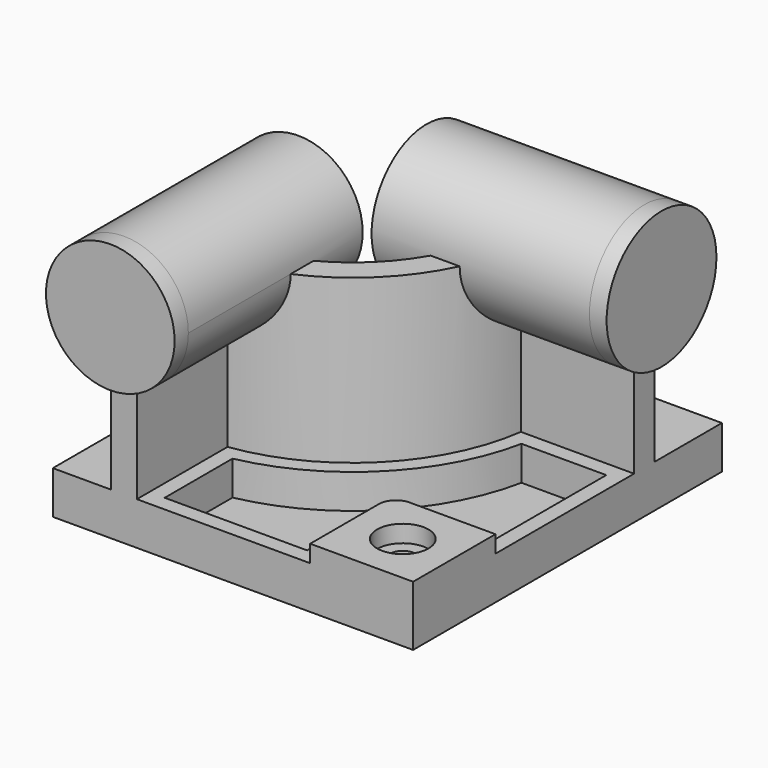
from build123d import *

# Parameters (mm, degrees)
F0_W            = 5334
F0_H            = 5715
F1_DEPTH        = 635
F3_DEPTH        = 2413
F4_R            = 952.5
F5_DEPTH        = 254
F5_DEPTH_BACK   = 3225.8
F6_R            = 1016
F7_DEPTH        = 254
F7_DEPTH_BACK   = 3225.8
F8_W            = 1524
F8_H            = 1524
F9_DEPTH        = 254
F10_R           = 254
F12_DEPTH       = 508
F14_D           = 381
F14_CBORE_D     = 762
F14_CBORE_DEPTH = 254


with BuildPart() as f1:
    # F0 (on Top) → F1 (new body)
    with BuildSketch(Plane.XY):
        Rectangle(F0_W, F0_H)
    extrude(amount=-F1_DEPTH)

    # F2 (on face) → F3 (join)
    with BuildSketch(Plane.XY):
        with BuildLine():
            Line((-1803.4, -825.5), (-1803.4, -2857.5))
            Line((-1803.4, -2857.5), (-1422.4, -2857.5))
            Line((-1422.4, -2857.5), (-1422.4, -1180.638144))
            ThreePointArc((-1422.4, -1180.638144), (190.216859, -380.716859), (990.138144, 1231.9))
            Line((990.138144, 1231.9), (2667, 1231.9))
            Line((2667, 1231.9), (2667, 1612.9))
            Line((2667, 1612.9), (635, 1612.9))
            ThreePointArc((635, 1612.9), (-79.190825, -111.309175), (-1803.4, -825.5))
        make_face()
    extrude(amount=F3_DEPTH)

    # F4 (on face) → F5 (join, two sides)
    with BuildSketch(Plane.XZ.offset(2857.5)) as f5_sk:
        with Locations((-1612.9, 2413)):
            Circle(F4_R)
    extrude(amount=F5_DEPTH)
    extrude(f5_sk.sketch, amount=-F5_DEPTH_BACK)

    # F6 (on face) → F7 (join, two sides)
    with BuildSketch(Plane.YZ.offset(2667)) as f7_sk:
        with Locations((1422.4, 2413)):
            Circle(F6_R)
    extrude(amount=F7_DEPTH)
    extrude(f7_sk.sketch, amount=-F7_DEPTH_BACK)

    # F8 (on face) → F9 (join)
    with BuildSketch(Plane.XY):
        with Locations((1905, -2095.5)):
            Rectangle(F8_W, F8_H)
    extrude(amount=F9_DEPTH)

    # F10
    f10_edges = [f1.edges().sort_by_distance(p)[0] for p in [
        (1143, -1333.5, 127),
    ]]
    fillet(f10_edges, radius=F10_R)

    # F11 (on face) → F12 (cut)
    with BuildSketch(Plane.XY):
        with BuildLine():
            ThreePointArc((1183.017894, 1003.3), (351.861469, -542.361469), (-1193.8, -1373.517894))
            Line((-1193.8, -1373.517894), (-1193.8, -2628.9))
            Line((-1193.8, -2628.9), (914.4, -2628.9))
            Line((914.4, -2628.9), (914.4, -1587.5))
            ThreePointArc((914.4, -1587.5), (1055.750267, -1246.250267), (1397, -1104.9))
            Line((1397, -1104.9), (2438.4, -1104.9))
            Line((2438.4, -1104.9), (2438.4, 1003.3))
            Line((2438.4, 1003.3), (1183.017894, 1003.3))
        make_face()
    extrude(amount=-F12_DEPTH, mode=Mode.SUBTRACT)

    # F14 (through all)
    with Locations(Plane.XY.offset(254)):
        with Locations((1905, -2095.5)):
            CounterBoreHole(F14_D / 2, F14_CBORE_D / 2, F14_CBORE_DEPTH)


solid = f1.part
